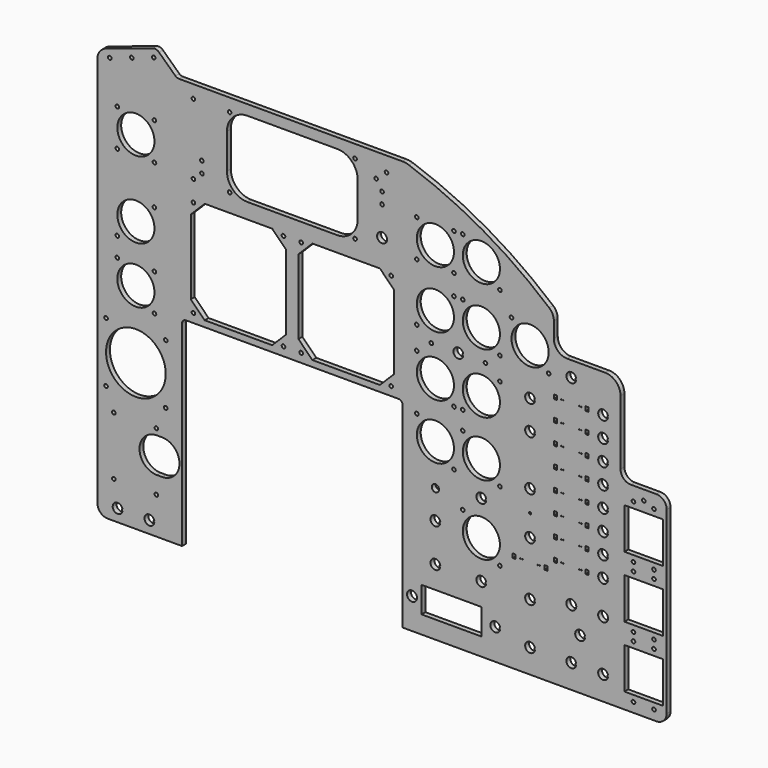
from build123d import *

# Parameters (mm, degrees)
F0_R     = 2.2352
F0_R_2   = 36.957
F0_R_3   = 22.987
F0_R_4   = 6.151563
F0_W     = 74.168
F0_H     = 32.258
F0_W_2   = 3.81
F0_H_2   = 5.1308
F0_R_5   = 0.5
F0_W_3   = 47.752
F0_H_3   = 50.8
F0_R_6   = 4.5
F0_R_7   = 1.27
F1_DEPTH = 6


with BuildPart() as f1:
    # F0 (on Front) → F1 (new body)
    with BuildSketch(Plane.XZ):
        with BuildLine():
            ThreePointArc((-253.75755, -118.935383), (-250.037806, -127.915639), (-241.05755, -131.635383))
            Line((-241.05755, -131.635383), (-148.98255, -131.635383))
            Line((-148.98255, -131.635383), (-148.98255, 110.934617))
            ThreePointArc((-148.98255, 110.934617), (-147.494653, 114.52672), (-143.90255, 116.014617))
            Line((-143.90255, 116.014617), (118.98745, 116.014617))
            ThreePointArc((118.98745, 116.014617), (122.579552, 114.52672), (124.06745, 110.934617))
            Line((124.06745, 110.934617), (124.06745, -131.635383))
            Line((124.06745, -131.635383), (311.39245, -131.635383))
            Line((311.39245, -131.635383), (438.39245, -131.635383))
            ThreePointArc((438.39245, -131.635383), (447.372706, -127.915639), (451.09245, -118.935383))
            Line((451.09245, -118.935383), (451.09245, 103.314617))
            ThreePointArc((451.09245, 103.314617), (447.372706, 112.294873), (438.39245, 116.014617))
            Line((438.39245, 116.014617), (406.64245, 116.014617))
            ThreePointArc((406.64245, 116.014617), (397.662194, 119.734361), (393.94245, 128.714617))
            Line((393.94245, 128.714617), (393.94245, 208.724617))
            ThreePointArc((393.94245, 208.724617), (388.362834, 222.195001), (374.89245, 227.774617))
            Line((374.89245, 227.774617), (327.90245, 227.774617))
            ThreePointArc((327.90245, 227.774617), (316.228117, 232.610284), (311.39245, 244.284617))
            Line((311.39245, 244.284617), (311.39245, 255.714617))
            Line((311.39245, 255.714617), (-253.75755, 255.714617))
            Line((-253.75755, 255.714617), (-253.75755, -118.935383))
        make_face()
        with BuildLine():
            ThreePointArc((-222.71298, -117.345383), (-234.83855, -116.395383), (-222.71298, -115.445383))
            Line((-222.71298, -115.445383), (-223.53855, -115.445383))
            Line((-223.53855, -115.445383), (-223.53855, -117.345383))
            Line((-223.53855, -117.345383), (-222.71298, -117.345383))
        make_face(mode=Mode.SUBTRACT)
        with BuildLine():
            ThreePointArc((-183.34298, -117.345383), (-195.46855, -116.395383), (-183.34298, -115.445383))
            Line((-183.34298, -115.445383), (-184.16855, -115.445383))
            Line((-184.16855, -115.445383), (-184.16855, -117.345383))
            Line((-184.16855, -117.345383), (-183.34298, -117.345383))
        make_face(mode=Mode.SUBTRACT)
        with Locations((-233.43755, -85.915383)):
            Circle(F0_R, mode=Mode.SUBTRACT)
        with Locations((-180.73255, -85.915383)):
            Circle(F0_R, mode=Mode.SUBTRACT)
        with BuildLine():
            Line((-180.09755, -21.145383), (-173.74755, -21.145383))
            ThreePointArc((-173.74755, -21.145383), (-152.15755, -42.735383), (-173.74755, -64.325383))
            Line((-173.74755, -64.325383), (-180.09755, -64.325383))
            ThreePointArc((-180.09755, -64.325383), (-201.68755, -42.735383), (-180.09755, -21.145383))
        make_face(mode=Mode.SUBTRACT)
        with Locations((-233.43755, -13.525383)):
            Circle(F0_R, mode=Mode.SUBTRACT)
        with Locations((-180.73255, -13.525383)):
            Circle(F0_R, mode=Mode.SUBTRACT)
        with Locations((-243.08955, 12.382617)):
            Circle(F0_R, mode=Mode.SUBTRACT)
        with Locations((-169.17555, 12.382617)):
            Circle(F0_R, mode=Mode.SUBTRACT)
        with Locations((-206.13255, 49.339617)):
            Circle(F0_R_2, mode=Mode.SUBTRACT)
        with Locations((-243.08955, 86.296617)):
            Circle(F0_R, mode=Mode.SUBTRACT)
        with Locations((-169.17555, 86.296617)):
            Circle(F0_R, mode=Mode.SUBTRACT)
        with Locations((-183.14555, 110.680617)):
            Circle(F0_R, mode=Mode.SUBTRACT)
        with Locations((-206.13255, 133.667617)):
            Circle(F0_R_3, mode=Mode.SUBTRACT)
        with Locations((-134.88555, 126.936617)):
            Circle(F0_R, mode=Mode.SUBTRACT)
        with Locations((-23.37955, 126.936617)):
            Circle(F0_R, mode=Mode.SUBTRACT)
        with Locations((-1.53555, 126.936617)):
            Circle(F0_R, mode=Mode.SUBTRACT)
        with Locations((135.75145, -93.535383)):
            Circle(F0_R_4, mode=Mode.SUBTRACT)
        with Locations((184.51945, -93.535383)):
            Rectangle(F0_W, F0_H, mode=Mode.SUBTRACT)
        with BuildLine():
            ThreePointArc((244.90102, -94.485383), (232.77545, -93.535383), (244.90102, -92.585383))
            Line((244.90102, -92.585383), (244.07545, -92.585383))
            Line((244.07545, -92.585383), (244.07545, -94.485383))
            Line((244.07545, -94.485383), (244.90102, -94.485383))
        make_face(mode=Mode.SUBTRACT)
        with BuildLine():
            ThreePointArc((170.73302, -50.543383), (158.60745, -49.593383), (170.73302, -48.643383))
            Line((170.73302, -48.643383), (169.90745, -48.643383))
            Line((169.90745, -48.643383), (169.90745, -50.543383))
            Line((169.90745, -50.543383), (170.73302, -50.543383))
        make_face(mode=Mode.SUBTRACT)
        with BuildLine():
            ThreePointArc((170.73302, -3.045383), (158.60745, -2.095383), (170.73302, -1.145383))
            Line((170.73302, -1.145383), (169.90745, -1.145383))
            Line((169.90745, -1.145383), (169.90745, -3.045383))
            Line((169.90745, -3.045383), (170.73302, -3.045383))
        make_face(mode=Mode.SUBTRACT)
        with BuildLine():
            ThreePointArc((227.62902, -50.543383), (215.50345, -49.593383), (227.62902, -48.643383))
            Line((227.62902, -48.643383), (226.80345, -48.643383))
            Line((226.80345, -48.643383), (226.80345, -50.543383))
            Line((226.80345, -50.543383), (227.62902, -50.543383))
        make_face(mode=Mode.SUBTRACT)
        with Locations((221.60345, -2.095383)):
            Circle(F0_R_3, mode=Mode.SUBTRACT)
        with Locations((244.59045, -25.082383)):
            Circle(F0_R, mode=Mode.SUBTRACT)
        with Locations((262.254387, -8.953383)):
            Rectangle(F0_W_2, F0_H_2, mode=Mode.SUBTRACT)
        with Locations((269.86345, -8.953383)):
            Circle(F0_R_5, mode=Mode.SUBTRACT)
        with Locations((272.40345, -8.953383)):
            Circle(F0_R_5, mode=Mode.SUBTRACT)
        with BuildLine():
            ThreePointArc((287.95402, -102.867383), (275.82845, -101.917383), (287.95402, -100.967383))
            Line((287.95402, -100.967383), (287.12845, -100.967383))
            Line((287.12845, -100.967383), (287.12845, -102.867383))
            Line((287.12845, -102.867383), (287.95402, -102.867383))
        make_face(mode=Mode.SUBTRACT)
        with BuildLine():
            ThreePointArc((339.00802, -102.867383), (326.88245, -101.917383), (339.00802, -100.967383))
            Line((339.00802, -100.967383), (338.18245, -100.967383))
            Line((338.18245, -100.967383), (338.18245, -102.867383))
            Line((338.18245, -102.867383), (339.00802, -102.867383))
        make_face(mode=Mode.SUBTRACT)
        with BuildLine():
            ThreePointArc((349.93002, -69.593383), (337.80445, -68.643383), (349.93002, -67.693383))
            Line((349.93002, -67.693383), (349.10445, -67.693383))
            Line((349.10445, -67.693383), (349.10445, -69.593383))
            Line((349.10445, -69.593383), (349.93002, -69.593383))
        make_face(mode=Mode.SUBTRACT)
        with BuildLine():
            ThreePointArc((378.37802, -102.867383), (366.25245, -101.917383), (378.37802, -100.967383))
            Line((378.37802, -100.967383), (377.55245, -100.967383))
            Line((377.55245, -100.967383), (377.55245, -102.867383))
            Line((377.55245, -102.867383), (378.37802, -102.867383))
        make_face(mode=Mode.SUBTRACT)
        with Locations((409.94445, -119.697383)):
            Circle(F0_R, mode=Mode.SUBTRACT)
        with Locations((435.34445, -119.697383)):
            Circle(F0_R, mode=Mode.SUBTRACT)
        Polygon((446.52045, -112.077383), (421.12045, -112.077383), (398.76845, -112.077383), (398.76845, -61.277383), (421.12045, -61.277383), (446.52045, -61.277383), align=None, mode=Mode.SUBTRACT)
        with BuildLine():
            ThreePointArc((287.95402, -50.543383), (275.82845, -49.593383), (287.95402, -48.643383))
            Line((287.95402, -48.643383), (287.12845, -48.643383))
            Line((287.12845, -48.643383), (287.12845, -50.543383))
            Line((287.12845, -50.543383), (287.95402, -50.543383))
        make_face(mode=Mode.SUBTRACT)
        with Locations((332.98245, -38.925383)):
            Circle(F0_R_4, mode=Mode.SUBTRACT)
        with Locations((291.45345, -8.953383)):
            Circle(F0_R_5, mode=Mode.SUBTRACT)
        with Locations((293.99345, -8.953383)):
            Circle(F0_R_5, mode=Mode.SUBTRACT)
        with Locations((301.603466, -8.953383)):
            Rectangle(F0_W_2, F0_H_2, mode=Mode.SUBTRACT)
        with Locations((372.35245, -38.925383)):
            Circle(F0_R_4, mode=Mode.SUBTRACT)
        with Locations((409.94445, -53.657383)):
            Circle(F0_R, mode=Mode.SUBTRACT)
        with Locations((435.34445, -53.657383)):
            Circle(F0_R, mode=Mode.SUBTRACT)
        with Locations((409.94445, -43.497383)):
            Circle(F0_R, mode=Mode.SUBTRACT)
        with Locations((435.34445, -43.497383)):
            Circle(F0_R, mode=Mode.SUBTRACT)
        with Locations((422.64445, -10.477383)):
            Rectangle(F0_W_3, F0_H_3, mode=Mode.SUBTRACT)
        with Locations((164.70745, 33.464617)):
            Circle(F0_R_6, mode=Mode.SUBTRACT)
        with Locations((198.61645, 20.891617)):
            Circle(F0_R, mode=Mode.SUBTRACT)
        with BuildLine():
            ThreePointArc((227.62902, 40.134617), (215.50345, 41.084617), (227.62902, 42.034617))
            Line((227.62902, 42.034617), (226.80345, 42.034617))
            Line((226.80345, 42.034617), (226.80345, 40.134617))
            Line((226.80345, 40.134617), (227.62902, 40.134617))
        make_face(mode=Mode.SUBTRACT)
        with Locations((187.69445, 61.277617)):
            Circle(F0_R, mode=Mode.SUBTRACT)
        with Locations((244.59045, 61.277617)):
            Circle(F0_R, mode=Mode.SUBTRACT)
        with Locations((164.70745, 84.264617)):
            Circle(F0_R_3, mode=Mode.SUBTRACT)
        with Locations((141.72045, 107.251617)):
            Circle(F0_R, mode=Mode.SUBTRACT)
        with Locations((109.97045, 126.936617)):
            Circle(F0_R, mode=Mode.SUBTRACT)
        with Locations((221.60345, 84.264617)):
            Circle(F0_R_3, mode=Mode.SUBTRACT)
        with Locations((198.61645, 107.251617)):
            Circle(F0_R, mode=Mode.SUBTRACT)
        with Locations((187.69445, 129.857617)):
            Circle(F0_R, mode=Mode.SUBTRACT)
        with Locations((198.61645, 129.857617)):
            Circle(F0_R, mode=Mode.SUBTRACT)
        with BuildLine():
            ThreePointArc((287.95402, 16.766617), (275.82845, 17.716617), (287.95402, 18.666617))
            Line((287.95402, 18.666617), (287.12845, 18.666617))
            Line((287.12845, 18.666617), (287.12845, 16.766617))
            Line((287.12845, 16.766617), (287.95402, 16.766617))
        make_face(mode=Mode.SUBTRACT)
        with Locations((313.306779, 3.187817)):
            Rectangle(F0_W_2, F0_H_2, mode=Mode.SUBTRACT)
        with Locations((313.306779, 28.587817)):
            Rectangle(F0_W_2, F0_H_2, mode=Mode.SUBTRACT)
        with Locations((320.53645, 2.984617)):
            Circle(F0_R_5, mode=Mode.SUBTRACT)
        with Locations((323.07645, 2.984617)):
            Circle(F0_R_5, mode=Mode.SUBTRACT)
        with Locations((342.88845, 2.984617)):
            Circle(F0_R_5, mode=Mode.SUBTRACT)
        with Locations((345.42845, 2.984617)):
            Circle(F0_R_5, mode=Mode.SUBTRACT)
        with Locations((352.661848, 2.984617)):
            Rectangle(F0_W_2, F0_H_2, mode=Mode.SUBTRACT)
        with Locations((320.53645, 28.384617)):
            Circle(F0_R_5, mode=Mode.SUBTRACT)
        with Locations((323.07645, 28.384617)):
            Circle(F0_R_5, mode=Mode.SUBTRACT)
        with Locations((342.88845, 28.384617)):
            Circle(F0_R_5, mode=Mode.SUBTRACT)
        with Locations((345.42845, 28.384617)):
            Circle(F0_R_5, mode=Mode.SUBTRACT)
        with Locations((352.661848, 28.384617)):
            Rectangle(F0_W_2, F0_H_2, mode=Mode.SUBTRACT)
        with Locations((281.92845, 44.386617)):
            Circle(F0_R_7, mode=Mode.SUBTRACT)
        with Locations((313.306779, 53.987817)):
            Rectangle(F0_W_2, F0_H_2, mode=Mode.SUBTRACT)
        with Locations((320.53645, 53.784617)):
            Circle(F0_R_5, mode=Mode.SUBTRACT)
        with Locations((323.07645, 53.784617)):
            Circle(F0_R_5, mode=Mode.SUBTRACT)
        with Locations((342.88845, 53.784617)):
            Circle(F0_R_5, mode=Mode.SUBTRACT)
        with Locations((345.42845, 53.784617)):
            Circle(F0_R_5, mode=Mode.SUBTRACT)
        with Locations((352.661848, 53.784617)):
            Rectangle(F0_W_2, F0_H_2, mode=Mode.SUBTRACT)
        with BuildLine():
            ThreePointArc((378.37802, 2.034617), (366.25245, 2.984617), (378.37802, 3.934617))
            Line((378.37802, 3.934617), (377.55245, 3.934617))
            Line((377.55245, 3.934617), (377.55245, 2.034617))
            Line((377.55245, 2.034617), (378.37802, 2.034617))
        make_face(mode=Mode.SUBTRACT)
        with BuildLine():
            ThreePointArc((378.37802, 27.434617), (366.25245, 28.384617), (378.37802, 29.334617))
            Line((378.37802, 29.334617), (377.55245, 29.334617))
            Line((377.55245, 29.334617), (377.55245, 27.434617))
            Line((377.55245, 27.434617), (378.37802, 27.434617))
        make_face(mode=Mode.SUBTRACT)
        with Locations((409.94445, 22.542617)):
            Circle(F0_R, mode=Mode.SUBTRACT)
        with Locations((409.94445, 32.702617)):
            Circle(F0_R, mode=Mode.SUBTRACT)
        with Locations((435.34445, 22.542617)):
            Circle(F0_R, mode=Mode.SUBTRACT)
        with Locations((435.34445, 32.702617)):
            Circle(F0_R, mode=Mode.SUBTRACT)
        with BuildLine():
            ThreePointArc((378.37802, 52.834617), (366.25245, 53.784617), (378.37802, 54.734617))
            Line((378.37802, 54.734617), (377.55245, 54.734617))
            Line((377.55245, 54.734617), (377.55245, 52.834617))
            Line((377.55245, 52.834617), (378.37802, 52.834617))
        make_face(mode=Mode.SUBTRACT)
        with Locations((422.64445, 65.722617)):
            Rectangle(F0_W_3, F0_H_3, mode=Mode.SUBTRACT)
        with BuildLine():
            ThreePointArc((287.95402, 70.106617), (275.82845, 71.056617), (287.95402, 72.006617))
            Line((287.95402, 72.006617), (287.12845, 72.006617))
            Line((287.12845, 72.006617), (287.12845, 70.106617))
            Line((287.12845, 70.106617), (287.95402, 70.106617))
        make_face(mode=Mode.SUBTRACT)
        with Locations((313.306779, 79.387817)):
            Rectangle(F0_W_2, F0_H_2, mode=Mode.SUBTRACT)
        with Locations((320.53645, 79.184617)):
            Circle(F0_R_5, mode=Mode.SUBTRACT)
        with Locations((323.07645, 79.184617)):
            Circle(F0_R_5, mode=Mode.SUBTRACT)
        with Locations((342.88845, 79.184617)):
            Circle(F0_R_5, mode=Mode.SUBTRACT)
        with Locations((345.42845, 79.184617)):
            Circle(F0_R_5, mode=Mode.SUBTRACT)
        with Locations((352.661848, 79.184617)):
            Rectangle(F0_W_2, F0_H_2, mode=Mode.SUBTRACT)
        with Locations((313.306779, 104.787817)):
            Rectangle(F0_W_2, F0_H_2, mode=Mode.SUBTRACT)
        with BuildLine():
            ThreePointArc((287.95402, 132.336617), (275.82845, 133.286617), (287.95402, 134.236617))
            Line((287.95402, 134.236617), (287.12845, 134.236617))
            Line((287.12845, 134.236617), (287.12845, 132.336617))
            Line((287.12845, 132.336617), (287.95402, 132.336617))
        make_face(mode=Mode.SUBTRACT)
        with Locations((313.306779, 130.187817)):
            Rectangle(F0_W_2, F0_H_2, mode=Mode.SUBTRACT)
        with Locations((320.53645, 104.584617)):
            Circle(F0_R_5, mode=Mode.SUBTRACT)
        with Locations((323.07645, 104.584617)):
            Circle(F0_R_5, mode=Mode.SUBTRACT)
        with Locations((342.88845, 104.584617)):
            Circle(F0_R_5, mode=Mode.SUBTRACT)
        with Locations((345.42845, 104.584617)):
            Circle(F0_R_5, mode=Mode.SUBTRACT)
        with Locations((352.661848, 104.584617)):
            Rectangle(F0_W_2, F0_H_2, mode=Mode.SUBTRACT)
        with Locations((320.53645, 129.984617)):
            Circle(F0_R_5, mode=Mode.SUBTRACT)
        with Locations((323.07645, 129.984617)):
            Circle(F0_R_5, mode=Mode.SUBTRACT)
        with Locations((342.88845, 129.984617)):
            Circle(F0_R_5, mode=Mode.SUBTRACT)
        with Locations((345.42845, 129.984617)):
            Circle(F0_R_5, mode=Mode.SUBTRACT)
        with Locations((352.661848, 129.984617)):
            Rectangle(F0_W_2, F0_H_2, mode=Mode.SUBTRACT)
        with BuildLine():
            ThreePointArc((378.37802, 78.234617), (366.25245, 79.184617), (378.37802, 80.134617))
            Line((378.37802, 80.134617), (377.55245, 80.134617))
            Line((377.55245, 80.134617), (377.55245, 78.234617))
            Line((377.55245, 78.234617), (378.37802, 78.234617))
        make_face(mode=Mode.SUBTRACT)
        with Locations((409.94445, 98.742617)):
            Circle(F0_R, mode=Mode.SUBTRACT)
        with Locations((435.34445, 98.742617)):
            Circle(F0_R, mode=Mode.SUBTRACT)
        with BuildLine():
            ThreePointArc((378.37802, 103.634617), (366.25245, 104.584617), (378.37802, 105.534617))
            Line((378.37802, 105.534617), (377.55245, 105.534617))
            Line((377.55245, 105.534617), (377.55245, 103.634617))
            Line((377.55245, 103.634617), (378.37802, 103.634617))
        make_face(mode=Mode.SUBTRACT)
        with BuildLine():
            ThreePointArc((378.37802, 129.034617), (366.25245, 129.984617), (378.37802, 130.934617))
            Line((378.37802, 130.934617), (377.50245, 130.934617))
            Line((377.50245, 130.934617), (377.50245, 129.034617))
            Line((377.50245, 129.034617), (378.37802, 129.034617))
        make_face(mode=Mode.SUBTRACT)
        with Locations((422.64445, 103.822617)):
            Circle(F0_R, mode=Mode.SUBTRACT)
        with Locations((-229.11955, 156.654617)):
            Circle(F0_R, mode=Mode.SUBTRACT)
        with Locations((-183.14555, 156.654617)):
            Circle(F0_R, mode=Mode.SUBTRACT)
        with Locations((-229.11955, 180.530617)):
            Circle(F0_R, mode=Mode.SUBTRACT)
        Polygon((-37.34955, 123.634617), (-120.91555, 123.634617), (-138.18755, 140.906617), (-138.18755, 233.362617), (-120.91555, 250.634617), (-37.34955, 250.634617), (-20.07755, 233.362617), (-20.07755, 140.906617), align=None, mode=Mode.SUBTRACT)
        with Locations((-206.13255, 203.517617)):
            Circle(F0_R_3, mode=Mode.SUBTRACT)
        with Locations((-183.14555, 226.504617)):
            Circle(F0_R, mode=Mode.SUBTRACT)
        with Locations((-134.88555, 247.332617)):
            Circle(F0_R, mode=Mode.SUBTRACT)
        Polygon((96.00045, 123.634617), (12.43445, 123.634617), (-4.83755, 140.906617), (-4.83755, 233.362617), (12.43445, 250.634617), (96.00045, 250.634617), (113.27245, 233.362617), (113.27245, 140.906617), align=None, mode=Mode.SUBTRACT)
        with Locations((-23.37955, 247.332617)):
            Circle(F0_R, mode=Mode.SUBTRACT)
        with Locations((-1.53555, 247.332617)):
            Circle(F0_R, mode=Mode.SUBTRACT)
        with Locations((164.70745, 152.844617)):
            Circle(F0_R_3, mode=Mode.SUBTRACT)
        with Locations((141.72045, 175.831617)):
            Circle(F0_R, mode=Mode.SUBTRACT)
        with Locations((159.62745, 189.992117)):
            Circle(F0_R, mode=Mode.SUBTRACT)
        with Locations((221.60345, 152.844617)):
            Circle(F0_R_3, mode=Mode.SUBTRACT)
        with BuildLine():
            ThreePointArc((199.18102, 189.042117), (187.05545, 189.992117), (199.18102, 190.942117))
            Line((199.18102, 190.942117), (198.35545, 190.942117))
            Line((198.35545, 190.942117), (198.35545, 189.042117))
            Line((198.35545, 189.042117), (199.18102, 189.042117))
        make_face(mode=Mode.SUBTRACT)
        with Locations((226.68345, 189.992117)):
            Circle(F0_R, mode=Mode.SUBTRACT)
        with Locations((244.59045, 175.831617)):
            Circle(F0_R, mode=Mode.SUBTRACT)
        with Locations((141.72045, 204.152617)):
            Circle(F0_R, mode=Mode.SUBTRACT)
        with Locations((164.70745, 227.139617)):
            Circle(F0_R_3, mode=Mode.SUBTRACT)
        with Locations((109.97045, 247.332617)):
            Circle(F0_R, mode=Mode.SUBTRACT)
        with Locations((221.60345, 227.139617)):
            Circle(F0_R_3, mode=Mode.SUBTRACT)
        with Locations((244.59045, 204.152617)):
            Circle(F0_R, mode=Mode.SUBTRACT)
        with Locations((187.69445, 250.126617)):
            Circle(F0_R, mode=Mode.SUBTRACT)
        with Locations((198.61645, 250.126617)):
            Circle(F0_R, mode=Mode.SUBTRACT)
        with Locations((258.94145, 250.126617)):
            Circle(F0_R, mode=Mode.SUBTRACT)
        with Locations((313.306779, 155.587817)):
            Rectangle(F0_W_2, F0_H_2, mode=Mode.SUBTRACT)
        with Locations((320.53645, 155.384617)):
            Circle(F0_R_5, mode=Mode.SUBTRACT)
        with Locations((323.07645, 155.384617)):
            Circle(F0_R_5, mode=Mode.SUBTRACT)
        with Locations((342.88845, 155.384617)):
            Circle(F0_R_5, mode=Mode.SUBTRACT)
        with Locations((345.42845, 155.384617)):
            Circle(F0_R_5, mode=Mode.SUBTRACT)
        with Locations((352.661848, 155.384617)):
            Rectangle(F0_W_2, F0_H_2, mode=Mode.SUBTRACT)
        with BuildLine():
            ThreePointArc((287.95402, 168.658617), (275.82845, 169.608617), (287.95402, 170.558617))
            Line((287.95402, 170.558617), (287.12845, 170.558617))
            Line((287.12845, 170.558617), (287.12845, 168.658617))
            Line((287.12845, 168.658617), (287.95402, 168.658617))
        make_face(mode=Mode.SUBTRACT)
        with Locations((313.306779, 180.987817)):
            Rectangle(F0_W_2, F0_H_2, mode=Mode.SUBTRACT)
        with Locations((320.53645, 180.784617)):
            Circle(F0_R_5, mode=Mode.SUBTRACT)
        with Locations((323.07645, 180.784617)):
            Circle(F0_R_5, mode=Mode.SUBTRACT)
        with Locations((342.88845, 180.784617)):
            Circle(F0_R_5, mode=Mode.SUBTRACT)
        with Locations((345.42845, 180.784617)):
            Circle(F0_R_5, mode=Mode.SUBTRACT)
        with Locations((352.661848, 180.784617)):
            Rectangle(F0_W_2, F0_H_2, mode=Mode.SUBTRACT)
        with BuildLine():
            ThreePointArc((378.37802, 154.434617), (366.25245, 155.384617), (378.37802, 156.334617))
            Line((378.37802, 156.334617), (377.55245, 156.334617))
            Line((377.55245, 156.334617), (377.55245, 154.434617))
            Line((377.55245, 154.434617), (378.37802, 154.434617))
        make_face(mode=Mode.SUBTRACT)
        with BuildLine():
            ThreePointArc((378.37802, 179.834617), (366.25245, 180.784617), (378.37802, 181.734617))
            Line((378.37802, 181.734617), (377.55245, 181.734617))
            Line((377.55245, 181.734617), (377.55245, 179.834617))
            Line((377.55245, 179.834617), (378.37802, 179.834617))
        make_face(mode=Mode.SUBTRACT)
        with Locations((304.91545, 204.152617)):
            Circle(F0_R, mode=Mode.SUBTRACT)
        with Locations((281.92845, 227.139617)):
            Circle(F0_R_3, mode=Mode.SUBTRACT)
        with BuildLine():
            ThreePointArc((339.00802, 207.774617), (326.88245, 208.724617), (339.00802, 209.674617))
            Line((339.00802, 209.674617), (338.18245, 209.674617))
            Line((338.18245, 209.674617), (338.18245, 207.774617))
            Line((338.18245, 207.774617), (339.00802, 207.774617))
        make_face(mode=Mode.SUBTRACT)
        with BuildLine():
            Line((-253.75755, 365.434414), (-253.75755, 255.714617))
            Line((-253.75755, 255.714617), (311.39245, 255.714617))
            Line((311.39245, 255.714617), (311.39245, 263.41733))
            ThreePointArc((311.39245, 263.41733), (309.87647, 270.328153), (305.60693, 275.969845))
            ThreePointArc((305.60693, 275.969845), (223.453386, 333.728569), (131.931956, 375.069867))
            ThreePointArc((131.931956, 375.069867), (127.872963, 376.095583), (123.700617, 376.440613))
            Line((123.700617, 376.440613), (117.71745, 376.440613))
            Line((117.71745, 376.440613), (-152.809964, 376.440613))
            ThreePointArc((-152.809964, 376.440613), (-155.154337, 376.889222), (-157.167463, 378.171663))
            Line((-157.167463, 378.171663), (-177.602367, 397.449874))
            ThreePointArc((-177.602367, 397.449874), (-181.181794, 399.346443), (-185.227398, 399.140629))
            Line((-185.227398, 399.140629), (-243.309614, 379.901401))
            ThreePointArc((-243.309614, 379.901401), (-250.872481, 374.357041), (-253.75755, 365.434414))
        make_face()
        with Locations((-229.11955, 275.399617)):
            Circle(F0_R, mode=Mode.SUBTRACT)
        with Locations((-183.14555, 275.399617)):
            Circle(F0_R, mode=Mode.SUBTRACT)
        with Locations((-206.13255, 298.386617)):
            Circle(F0_R_3, mode=Mode.SUBTRACT)
        with Locations((-229.11955, 321.373617)):
            Circle(F0_R, mode=Mode.SUBTRACT)
        with Locations((-183.14555, 321.373617)):
            Circle(F0_R, mode=Mode.SUBTRACT)
        with Locations((-134.88555, 273.062613)):
            Circle(F0_R, mode=Mode.SUBTRACT)
        with Locations((-124.407694, 282.547534)):
            Circle(F0_R, mode=Mode.SUBTRACT)
        with Locations((-124.407694, 296.517534)):
            Circle(F0_R, mode=Mode.SUBTRACT)
        with Locations((-90.11805, 273.062613)):
            Circle(F0_R, mode=Mode.SUBTRACT)
        with Locations((-238.471444, 371.470054)):
            Circle(F0_R, mode=Mode.SUBTRACT)
        with Locations((-211.205546, 380.501646)):
            Circle(F0_R, mode=Mode.SUBTRACT)
        with Locations((-184.02702, 389.504296)):
            Circle(F0_R, mode=Mode.SUBTRACT)
        with Locations((-134.88555, 360.438613)):
            Circle(F0_R, mode=Mode.SUBTRACT)
        with Locations((-90.11805, 360.438613)):
            Circle(F0_R, mode=Mode.SUBTRACT)
        with BuildLine():
            ThreePointArc((-93.42005, 338.340613), (-85.980562, 356.301125), (-68.02005, 363.740613))
            Line((-68.02005, 363.740613), (43.10495, 363.740613))
            ThreePointArc((43.10495, 363.740613), (61.065462, 356.301125), (68.50495, 338.340613))
            Line((68.50495, 338.340613), (68.50495, 295.160613))
            ThreePointArc((68.50495, 295.160613), (61.065462, 277.200101), (43.10495, 269.760613))
            Line((43.10495, 269.760613), (-68.02005, 269.760613))
            ThreePointArc((-68.02005, 269.760613), (-85.980562, 277.200101), (-93.42005, 295.160613))
            Line((-93.42005, 295.160613), (-93.42005, 338.340613))
        make_face(mode=Mode.SUBTRACT)
        with Locations((65.20295, 273.062613)):
            Circle(F0_R, mode=Mode.SUBTRACT)
        with Locations((98.66745, 285.000613)):
            Circle(F0_R_4, mode=Mode.SUBTRACT)
        with Locations((98.66745, 321.373617)):
            Circle(F0_R, mode=Mode.SUBTRACT)
        with Locations((98.66745, 335.343617)):
            Circle(F0_R, mode=Mode.SUBTRACT)
        with Locations((91.343619, 347.034782)):
            Circle(F0_R, mode=Mode.SUBTRACT)
        with Locations((65.20295, 360.438613)):
            Circle(F0_R, mode=Mode.SUBTRACT)
        with Locations((141.72045, 275.399617)):
            Circle(F0_R, mode=Mode.SUBTRACT)
        with Locations((164.70745, 298.386617)):
            Circle(F0_R_3, mode=Mode.SUBTRACT)
        with Locations((141.72045, 321.373617)):
            Circle(F0_R, mode=Mode.SUBTRACT)
        with Locations((187.69445, 275.399617)):
            Circle(F0_R, mode=Mode.SUBTRACT)
        with Locations((221.60345, 298.386617)):
            Circle(F0_R_3, mode=Mode.SUBTRACT)
        with Locations((244.59045, 275.399617)):
            Circle(F0_R, mode=Mode.SUBTRACT)
        with Locations((187.69445, 321.373617)):
            Circle(F0_R, mode=Mode.SUBTRACT)
        with Locations((198.61645, 321.373617)):
            Circle(F0_R, mode=Mode.SUBTRACT)
        with Locations((104.181767, 357.970983)):
            Circle(F0_R, mode=Mode.SUBTRACT)
    extrude(amount=F1_DEPTH)


solid = f1.part
